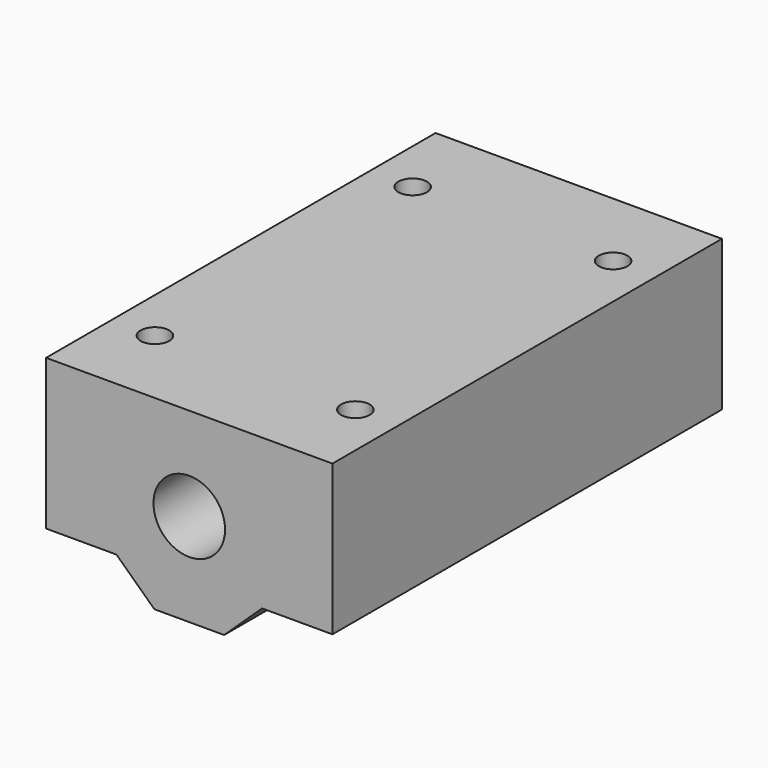
from build123d import *

# Parameters (mm, degrees)
F0_R     = 5
F1_DEPTH = 68
F3_D     = 4
F3_DEPTH = 10
F3_TIP   = 1.2017212381


with BuildPart() as f1:
    # F0 (on Front) → F1 (new body)
    with BuildSketch(Plane.XZ):
        Polygon((2.2830869555, 34.1427520012), (-37.7169130445, 34.1427520012), (-37.7169130445, 13.1427520012), (-27.8874205338, 13.1427520012), (-22.5867759436, 8.1427520012), (-12.8470501453, 8.1427520012), (-7.5464055551, 13.1427520012), (2.2830869555, 13.1427520012), align=None)
        with Locations((-17.7169130445, 21.1427520012)):
            Circle(F0_R, mode=Mode.SUBTRACT)
    extrude(amount=F1_DEPTH)

    # F3
    with Locations(Plane.XY.offset(34.1427520012)):
        with Locations((-31.7169130445, -11.5), (-31.7169130445, -56.5), (-3.7169130445, -11.5), (-3.7169130445, -56.5)):
            Hole(F3_D / 2, depth=F3_DEPTH)
            with Locations((0, 0, -(F3_DEPTH + F3_TIP / 2))):  # 118° drill point
                Cone(0, F3_D / 2, F3_TIP, mode=Mode.SUBTRACT)


solid = f1.part
